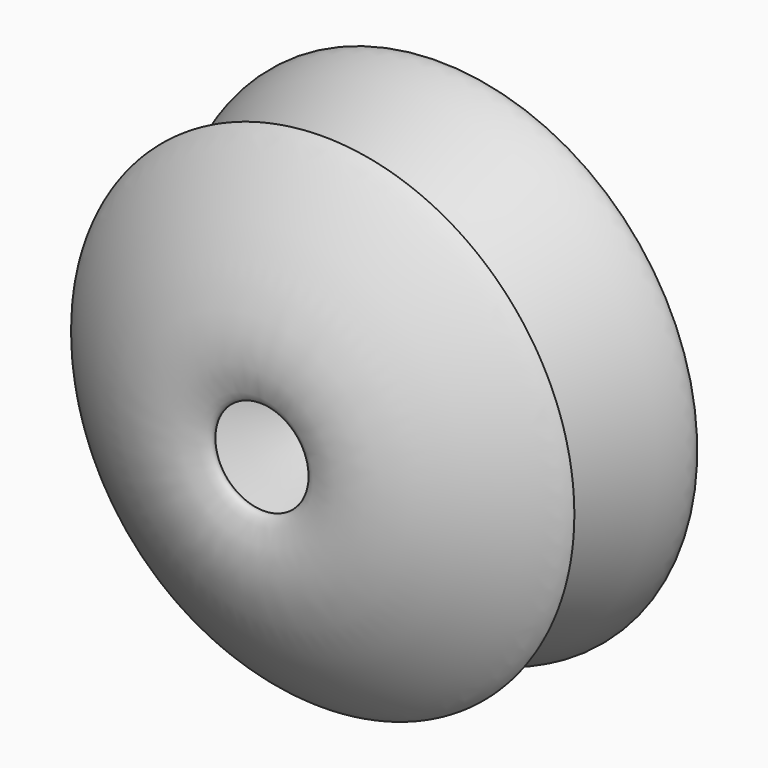
from build123d import *


with BuildPart() as f1:
    # F0 (on Top) → F1 (revolve)
    with BuildSketch(Plane.XY):
        with BuildLine():
            add(Edge.make_bspline(
                [(-62.2700452805, 68.9854472876), (-60.1635667519, 55.5747775576), (2.1448339994, -42.9902561493), (-89.4062169964, 17.2139190921), (9.6488904818, -68.1388474596), (76.4079007128, -40.7089556924), (-44.4189206601, -37.1067026511), (120.5997800245, 19.1689348109), (-23.8790929352, 44.061289705), (-63.6984448786, 78.0792001997), (-62.2700452805, 68.9854472876)],
                knots=[0, 0, 0, 0, 0.1530182521, 0.2414210637, 0.3913836102, 0.4861910333, 0.5992413753, 0.7378744875, 0.8962385769, 1, 1, 1, 1], degree=3))
        make_face()
    revolve(axis=Axis((76.3113349676, 0.6104931235, 0), (0, -1, 0)))


solid = f1.part
